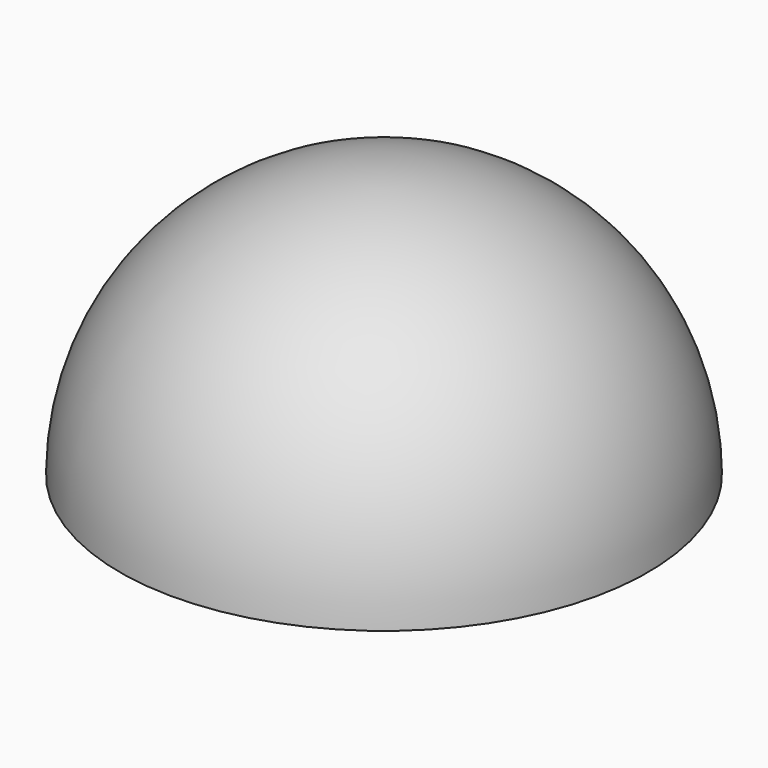
from build123d import *

# Parameters (mm, degrees)
BOX181_W               = 10
BOX181_H               = 10
BOX181_DEPTH           = 10
CUT090_PLACEMENT_ANGLE = 122


with BuildPart() as cube012:
    # Box181 → Box181 (new body)
    with BuildSketch(Plane(origin=(-5, -5, -10), x_dir=(1, 0, 0), z_dir=(0, 0, 1))):
        with Locations((5, 5)):
            Rectangle(BOX181_W, BOX181_H)
    extrude(amount=BOX181_DEPTH)


with BuildPart() as sapphire_half_ball_lens012:
    # Sphere012 → Sphere012 (revolve)
    with BuildSketch(Plane.XZ):
        with BuildLine():
            ThreePointArc((0, -2), (2, 0), (0, 2))
            Line((0, 2), (0, -2))
        make_face()
    revolve(axis=Axis((0, 0, 0), (0, 0, 1)))

    # Cut090: cut Cube012
    add(cube012.part, mode=Mode.SUBTRACT)


with BuildPart() as sapphire_half_ball_lens012_1:
    # Cut090 placement: moved
    add(sapphire_half_ball_lens012.part.moved(Location((-8.92, 19.54, 3.89))).rotate(Axis((-8.92, 19.54, 3.89), (0, 0, -1)), CUT090_PLACEMENT_ANGLE))


solid = sapphire_half_ball_lens012_1.part
